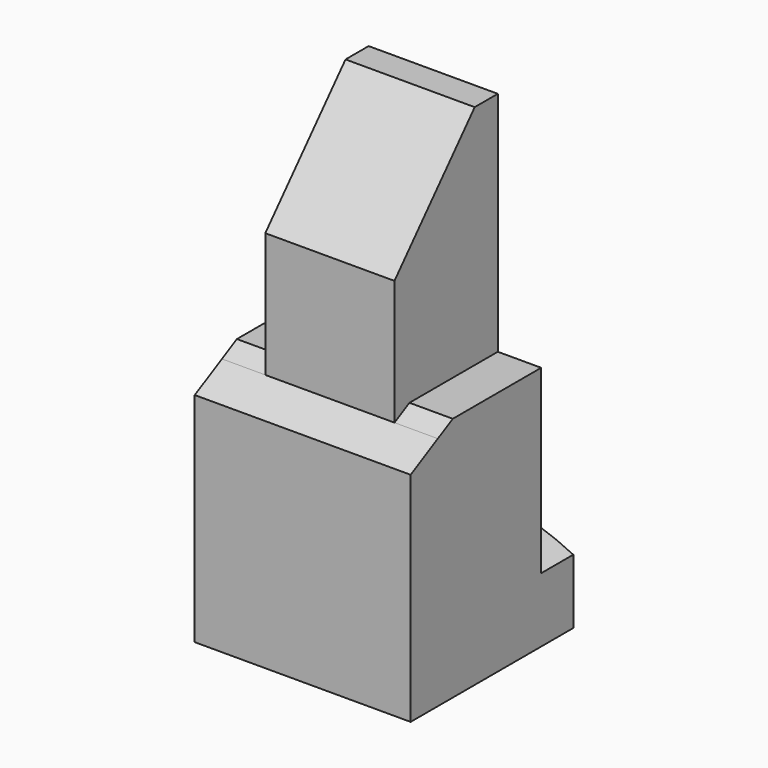
from build123d import *

# Parameters (mm, degrees)
F0_W      = 9.652
F0_H      = 16.9672
F1_DEPTH  = 12.192
F2_DEPTH  = 2.9972
F4_DEPTH  = 25.4
F6_DEPTH  = 3.2385
F8_DEPTH  = 3.2385
F10_D     = 6.7564
F10_DEPTH = 15.7734
F10_TIP   = 2.0298273432


with BuildPart() as f1:
    # F0 (on Front) → F1 (new body)
    with BuildSketch(Plane.XZ):
        with Locations((0, 26.8224)):
            Rectangle(F0_W, F0_H)
        with BuildLine():
            Line((4.826, 18.3388), (-4.826, 18.3388))
            Line((-4.826, 18.3388), (-8.0645, 18.3388))
            Line((-8.0645, 18.3388), (-8.0645, 4.826))
            ThreePointArc((-8.0645, 4.826), (0, 6.731), (8.0645, 4.826))
            Line((8.0645, 4.826), (8.0645, 18.3388))
            Line((8.0645, 18.3388), (4.826, 18.3388))
        make_face()
        with BuildLine():
            ThreePointArc((8.0645, 4.826), (0, 6.731), (-8.0645, 4.826))
            Line((-8.0645, 4.826), (-8.0645, 0))
            Line((-8.0645, 0), (8.0645, 0))
            Line((8.0645, 0), (8.0645, 4.826))
        make_face()
    extrude(amount=F1_DEPTH)

    # F0 (on Front) → F2 (join)
    with BuildSketch(Plane.XZ):
        with BuildLine():
            ThreePointArc((8.0645, 4.826), (0, 6.731), (-8.0645, 4.826))
            Line((-8.0645, 4.826), (-8.0645, 0))
            Line((-8.0645, 0), (8.0645, 0))
            Line((8.0645, 0), (8.0645, 4.826))
        make_face()
    extrude(amount=-F2_DEPTH)

    # F3 (on face) → F4 (cut, symmetric)
    with BuildSketch(Plane(origin=(-4.826, 0, 0), x_dir=(0, -1, 0), z_dir=(-1, 0, 0))):
        Polygon((2.159, 37.6501940191), (2.159, 35.306), (9.652, 26.924), (9.652, 17.5997419355), (12.192, 16.256), (15.097416006, 16.256), (15.097416006, 26.924), (15.097416006, 37.6501940191), align=None)
    extrude(amount=F4_DEPTH, both=True, mode=Mode.SUBTRACT)

    # F5 (on face) → F6 (cut, through all)
    with BuildSketch(Plane(origin=(-4.826, 0, 0), x_dir=(0, -1, 0), z_dir=(-1, 0, 0))):
        Polygon((9.652, 17.5997419355), (9.652, 18.3388), (8.255, 18.3388), align=None)
    extrude(amount=F6_DEPTH, mode=Mode.SUBTRACT)

    # F7 (on face) → F8 (cut, through all)
    with BuildSketch(Plane.YZ.offset(4.826)):
        Polygon((-8.255, 18.3388), (-9.652, 18.3388), (-9.652, 17.5997419355), align=None)
    extrude(amount=F8_DEPTH, mode=Mode.SUBTRACT)

    # F10
    with Locations(Plane(origin=(0, 0, 0), x_dir=(1, 0, 0), z_dir=(0, 0, -1))):
        with Locations((0, 5.588)):
            Hole(F10_D / 2, depth=F10_DEPTH)
            with Locations((0, 0, -(F10_DEPTH + F10_TIP / 2))):  # 118° drill point
                Cone(0, F10_D / 2, F10_TIP, mode=Mode.SUBTRACT)


solid = f1.part
